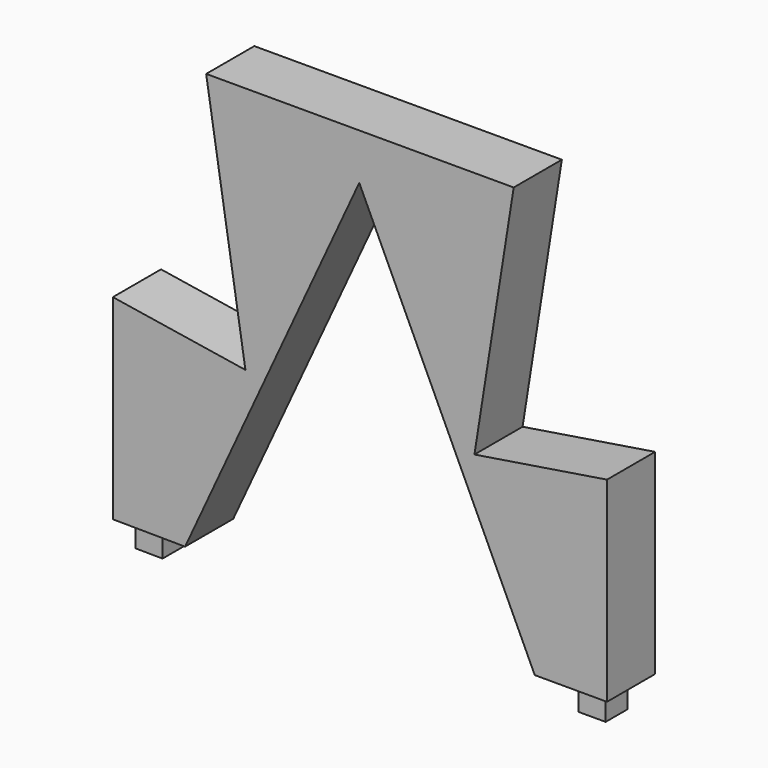
from build123d import *

# Parameters (mm, degrees)
F1_DEPTH = 10
F2_W     = 4.5
F2_H     = 4.5
F3_DEPTH = 4.5
F4_W     = 4.5
F4_H     = 4.5
F5_DEPTH = 4.5


with BuildPart() as f1:
    # F0 (on Front) → F1 (new body)
    with BuildSketch(Plane.XZ):
        Polygon((25.658527257, 23.514753694), (-25.441472743, 23.514753694), (-18.9181555508, -17.6718501088), (-40.9436055461, -14.1833615384), (-40.9436055461, -46.6833615384), (-28.9440269134, -46.7839231504), (0, 15.8518757671), (29.1606600601, -46.6833615384), (41.1606600601, -46.6833615384), (41.1606600601, -14.1833615384), (19.1352100648, -17.6718501088), align=None)
    extrude(amount=F1_DEPTH)

    # F2 (on face) → F3 (join)
    with BuildSketch(Plane(origin=(-0.3940744361, 0, -47.0231839888), x_dir=(0.9999648861, 0, -0.0083801343), z_dir=(-0.0083801343, 0, -0.9999648861))):
        with Locations((-36.2935631948, 5.5205655236)):
            Rectangle(F2_W, F2_H)
    extrude(amount=F3_DEPTH)

    # F4 (on face) → F5 (join)
    with BuildSketch(Plane(origin=(0, 0, -46.6833615384), x_dir=(1, 0, 0), z_dir=(0, 0, -1))):
        with Locations((36.903268241, 5.5205655236)):
            Rectangle(F4_W, F4_H)
    extrude(amount=F5_DEPTH)


solid = f1.part
